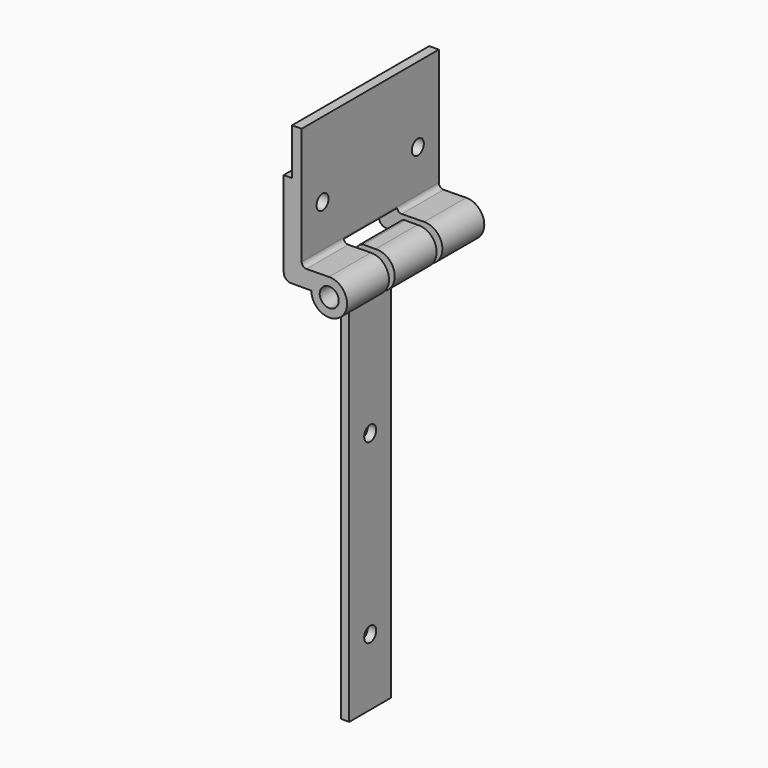
from build123d import *

# Parameters (mm, degrees)
F0_R           = 1.016
F1_DEPTH       = 5.588
F2_R           = 0.8001
F3_DEPTH       = 25.4
F3_DEPTH_BACK  = 25.4
F6_DEPTH       = 5.588
F10_DEPTH      = 7.112
F12_R          = 0.508
F13_R          = 0.762
F14_R          = 0.8001
F15_DEPTH      = 25.4
F15_DEPTH_BACK = 25.4
F16_DEPTH      = 25.4
F16_DEPTH_BACK = 25.4


with BuildPart() as f1:
    # F0 (on Front) → F1 (new body)
    with BuildSketch(Plane.XZ):
        with BuildLine():
            Line((0, 42.8991302448), (0, 0))
            Line((0, 0), (0.889, 0))
            Line((0.889, 0), (0.889, 42.53992))
            ThreePointArc((0.889, 42.53992), (0.9633948776, 42.7195251224), (1.143, 42.79392))
            Line((1.143, 42.79392), (1.651, 42.79392))
            ThreePointArc((1.651, 42.79392), (1.8306051224, 42.7195251224), (1.905, 42.53992))
            Line((1.905, 42.53992), (1.905, 41.7576))
            ThreePointArc((1.905, 41.7576), (1.9793948776, 41.5779948776), (2.159, 41.5036))
            Line((2.159, 41.5036), (3.7398205742, 41.5036))
            ThreePointArc((3.7398205742, 41.5036), (5.7402818064, 43.4274211016), (3.6974596514, 45.306200071))
            Line((3.6974596514, 45.306200071), (2.4042806048, 45.3043289671))
            ThreePointArc((2.4042806048, 45.3043289671), (2.1617710488, 45.25581718), (1.9561865808, 45.1183424378))
            Line((1.9561865808, 45.1183424378), (0.1859871939, 43.3481430509))
            ThreePointArc((0.1859871939, 43.3481430509), (0.0483364969, 43.1421342244), (0, 42.8991302448))
        make_face()
        with Locations((3.8354, 43.4062007393)):
            Circle(F0_R, mode=Mode.SUBTRACT)
    extrude(amount=F1_DEPTH)

    # F2 (on face) → F3 (cut, two sides)
    with BuildSketch(Plane.YZ.offset(0.889)) as f3_sk:
        with Locations((-2.794, 25.9715)):
            Circle(F2_R)
        with Locations((-2.794, 7.10438)):
            Circle(F2_R)
    extrude(amount=-F3_DEPTH, mode=Mode.SUBTRACT)
    extrude(f3_sk.sketch, amount=F3_DEPTH_BACK, mode=Mode.SUBTRACT)


with BuildPart() as f6:
    # F5 (on offset) → F6 (new body)
    with BuildSketch(Plane.XZ.offset(-0.762)):
        with BuildLine():
            Line((-1.016, 43.4062007393), (1.9304, 43.4062007393))
            ThreePointArc((1.9304, 43.4062007393), (5.1926627539, 42.0694648578), (3.8063714614, 45.3109795569))
            Line((3.8063714614, 45.3109795569), (0.889, 45.2665192609))
            Line((0.889, 45.2665192609), (0.889, 58.2652007393))
            Line((0.889, 58.2652007393), (-0.127, 58.2652007393))
            Line((-0.127, 58.2652007393), (-0.127, 53.3020407393))
            Line((-0.127, 53.3020407393), (-1.016, 53.3020407393))
            Line((-1.016, 53.3020407393), (-1.016, 43.4062007393))
        make_face()
        with BuildLine():
            ThreePointArc((2.8194, 43.4062007393), (3.8354, 44.4222007393), (4.8514, 43.4062007393))
            ThreePointArc((4.8514, 43.4062007393), (3.8354, 42.3902007393), (2.8194, 43.4062007393))
        make_face(mode=Mode.SUBTRACT)
    extrude(amount=-F6_DEPTH)


with BuildPart() as f8_1:
    # F8: instance of F6
    add(f6.part.mirror(Plane.XZ.offset(2.794)))


with BuildPart() as f10:
    # F9 (on face) → F10 (new body, through all)
    with BuildSketch(Plane.XZ.offset(-0.762)):
        Polygon((-1.016, 53.3020407393), (-1.016, 45.6642607393), (0.889, 45.6642607393), (0.889, 58.2652007393), (-0.127, 58.2652007393), (-0.127, 53.3020407393), align=None)
    extrude(amount=F10_DEPTH)


with BuildPart() as f6_1:
    add(f6.part)

    # F11: union F10, F8_1
    add(f10.part)
    add(f8_1.part)

    # F12
    f12_edges = [f6_1.edges().sort_by_distance(p)[0] for p in [
        (0.889, 3.556, 45.266519),
    ]]
    fillet(f12_edges, radius=F12_R)

    # F13
    f13_edges = [f6_1.edges().sort_by_distance(p)[0] for p in [
        (-1.016, -9.144, 43.406201),
        (-1.016, 3.556, 43.406201),
    ]]
    fillet(f13_edges, radius=F13_R)

    # F14 (on face) → F15 (cut, two sides)
    with BuildSketch(Plane.YZ.offset(0.889)) as f15_sk:
        with Locations((-9.144, 50.2540407393)):
            Circle(F14_R)
    extrude(amount=-F15_DEPTH, mode=Mode.SUBTRACT)
    extrude(f15_sk.sketch, amount=F15_DEPTH_BACK, mode=Mode.SUBTRACT)

    # F14 (on face) → F16 (cut, two sides)
    with BuildSketch(Plane.YZ.offset(0.889)) as f16_sk:
        with Locations((-9.144, 50.2540407393)):
            Circle(F14_R)
        with Locations((3.556, 50.2540407393)):
            Circle(F14_R)
    extrude(amount=-F16_DEPTH, mode=Mode.SUBTRACT)
    extrude(f16_sk.sketch, amount=F16_DEPTH_BACK, mode=Mode.SUBTRACT)


solid = Compound([f1.part, f6_1.part])
